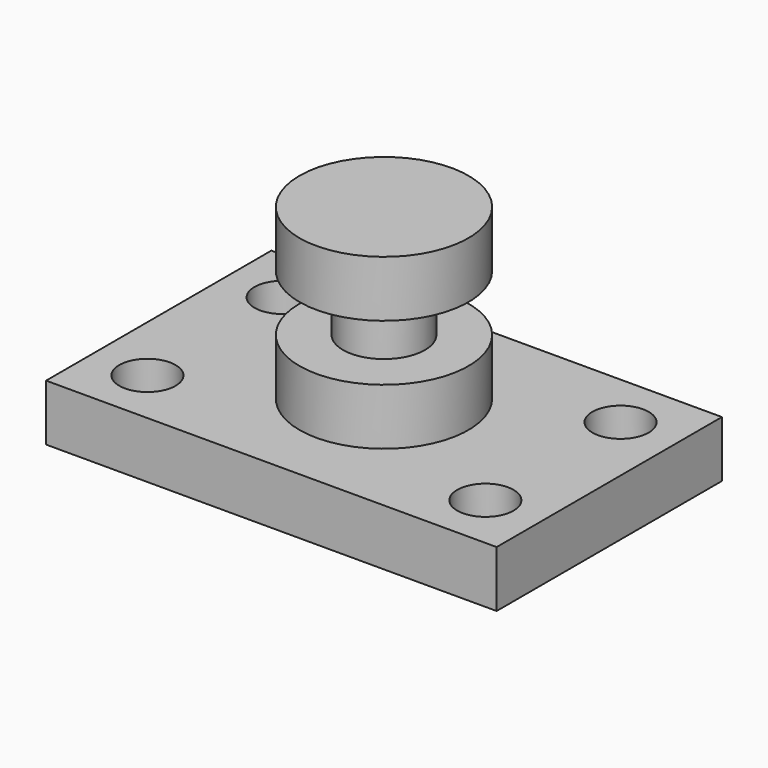
from build123d import *

# Parameters (mm, degrees)
F0_W     = 101.6
F0_H     = 63.5
F1_DEPTH = 12.7
F2_R     = 6.35
F3_DEPTH = 25.4
F4_W     = 19.05
F4_H     = 38.1
F6_W     = 36.313035
F6_H     = 12.7


with BuildPart() as f1:
    # F0 (on Top) → F1 (new body)
    with BuildSketch(Plane.XY):
        Rectangle(F0_W, F0_H)
    extrude(amount=F1_DEPTH)

    # F2 (on face) → F3 (cut)
    with BuildSketch(Plane.XY.offset(12.7)):
        with Locations((-38.1, -19.05)):
            Circle(F2_R)
        with Locations((-38.1, 19.05)):
            Circle(F2_R)
        with Locations((38.1, -19.05)):
            Circle(F2_R)
        with Locations((38.1, 19.05)):
            Circle(F2_R)
    extrude(amount=-F3_DEPTH, mode=Mode.SUBTRACT)


with BuildPart() as f5:
    # F4 (on Front) → F5 (revolve)
    with BuildSketch(Plane.XZ):
        with Locations((-9.525, 31.75)):
            Rectangle(F4_W, F4_H)
    revolve(axis=Axis((0, 0, 31.75), (0, 0, 1)))

    # F6 (on Front) → F7 (revolve, cut)
    with BuildSketch(Plane.XZ):
        with Locations((-27.398689, 31.75)):
            Rectangle(F6_W, F6_H)
    revolve(axis=Axis((0, 0, 33.592541), (0, 0, 1)), mode=Mode.SUBTRACT)


solid = Compound([f1.part, f5.part])
